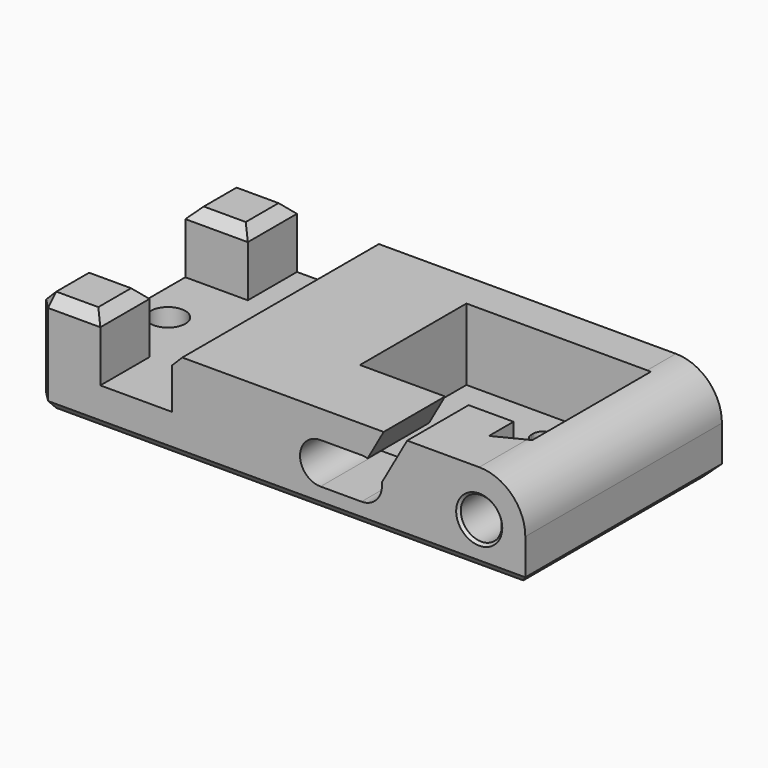
from build123d import *

# Parameters (mm, degrees)
SKETCH014_W     = 47.6
SKETCH014_H     = 24
SKETCH014_R     = 1.7
PAD003_DEPTH    = 10
POCKET011_DEPTH = 24.001
SKETCH016_R     = 2
POCKET012_DEPTH = 6
SKETCH017_W     = 7
SKETCH017_H     = 12
POCKET013_DEPTH = 6
SKETCH033_R     = 2
POCKET022_DEPTH = 5
SKETCH034_R     = 0.999503
POCKET023_DEPTH = 19.001
SKETCH020_W     = 18
SKETCH020_H     = 13
POCKET024_DEPTH = 7
SKETCH021_R     = 0.95
POCKET025_DEPTH = 5
POCKET026_DEPTH = 7
POCKET027_DEPTH = 8
POCKET028_DEPTH = 8
CHAMFER006_SIZE = 1
CHAMFER007_SIZE = 0.25


with BuildPart() as part:
    # Sketch014 → Pad003 (new body)
    with BuildSketch(Plane.XY):
        with Locations((20.7, 0)):
            Rectangle(SKETCH014_W, SKETCH014_H)
        Circle(SKETCH014_R, mode=Mode.SUBTRACT)
    extrude(amount=PAD003_DEPTH)

    # Sketch015 (on Face3 of Pad003) → Pocket011 (cut, through all)
    with BuildSketch(Plane.XZ.offset(12)):
        with BuildLine():
            Line((3, 10.1), (44.5, 10.1))
            Line((44.5, 4.5), (44.5, 10.1))
            ThreePointArc((44.5, 4.5), (43.181981, 7.68198), (40, 9))
            Line((40, 9), (10, 9))
            Line((10, 9), (10, 4))
            Line((10, 4), (3, 4))
            Line((3, 4), (3, 10.1))
        make_face()
    extrude(amount=-POCKET011_DEPTH, mode=Mode.SUBTRACT)

    # Sketch016 (on Face11 of Pocket011) → Pocket012 (cut)
    with BuildSketch(Plane.XZ.offset(12)):
        with Locations((40, 4.5)):
            Circle(SKETCH016_R)
    extrude(amount=-POCKET012_DEPTH, mode=Mode.SUBTRACT)

    # Sketch017 (on Face9 of Pocket012) → Pocket013 (cut)
    with BuildSketch(Plane.XY.offset(10)):
        Rectangle(SKETCH017_W, SKETCH017_H)
    extrude(amount=-POCKET013_DEPTH, mode=Mode.SUBTRACT)

    # Sketch033 (on Face1 of Pocket013) → Pocket022 (cut)
    with BuildSketch(Plane(origin=(0, 12, 0), x_dir=(-1, 0, 0), z_dir=(0, 1, 0))):
        with Locations((-40, 4.5)):
            Circle(SKETCH033_R)
    extrude(amount=-POCKET022_DEPTH, mode=Mode.SUBTRACT)

    # Sketch034 (on Face20 of Pocket022) → Pocket023 (cut, through all)
    with BuildSketch(Plane(origin=(0, 7, 0), x_dir=(-1, 0, 0), z_dir=(0, 1, 0))):
        with Locations((-40, 4.5)):
            Circle(SKETCH034_R)
    extrude(amount=-POCKET023_DEPTH, mode=Mode.SUBTRACT)

    # Sketch020 (on Face5 of Pocket013) → Pocket024 (cut)
    with BuildSketch(Plane.XY.offset(9)):
        with Locations((31.35, 2)):
            Rectangle(SKETCH020_W, SKETCH020_H)
    extrude(amount=-POCKET024_DEPTH, mode=Mode.SUBTRACT)

    # Sketch021 (on Face27 of Pocket024) → Pocket025 (cut)
    with BuildSketch(Plane.XY.offset(2)):
        with Locations((32.3, -1.2)):
            Circle(SKETCH021_R)
        with BuildLine():
            ThreePointArc((33.25, 5.4), (32.3, 6.35), (31.35, 5.4))
            Line((31.35, 5.4), (31.35, 5.2))
            ThreePointArc((31.35, 5.2), (32.3, 4.25), (33.25, 5.2))
            Line((33.25, 5.2), (33.25, 5.4))
        make_face()
    extrude(amount=-POCKET025_DEPTH, mode=Mode.SUBTRACT)

    # Sketch023 (on Face8 of Pocket025) → Pocket026 (cut)
    with BuildSketch(Plane.XY.offset(9)):
        Polygon((40.35, -4.5), (37.35, -4.5), (37.35, -7.5), (40.35, -5.98), align=None)
    extrude(amount=-POCKET026_DEPTH, mode=Mode.SUBTRACT)

    # Sketch024 (on Face12 of Pocket026) → Pocket027 (cut)
    with BuildSketch(Plane.XZ.offset(12)):
        with BuildLine():
            ThreePointArc((28.5, 2.3), (30.5, 4.3), (28.5, 6.3))
            Line((28.5, 6.3), (24.5, 6.3))
            ThreePointArc((24.5, 6.3), (22.5, 4.3), (24.5, 2.3))
            Line((24.5, 2.3), (28.5, 2.3))
        make_face()
    extrude(amount=-POCKET027_DEPTH, mode=Mode.SUBTRACT)

    # Sketch032 (on Face12 of Pocket027) → Pocket028 (cut)
    with BuildSketch(Plane.XZ.offset(12)):
        Polygon((31.392142, 10.286922), (27.849957, 3.99207), (30.144859, 3.99207), (33.687044, 10.286922), align=None)
    extrude(amount=-POCKET028_DEPTH, mode=Mode.SUBTRACT)

    # Chamfer006
    chamfer006_edges = [part.edges().sort_by_distance(p)[0] for p in [
        (-0.05, -12, 10),
        (-3.1, -9, 10),
        (-0.05, -6, 10),
        (3, -9, 10),
        (-0.05, 6, 10),
        (-3.1, 9, 10),
        (-0.05, 12, 10),
        (3, 9, 10),
        (10, 0, 9),
        (-3.1, -12, 5),
        (-3.1, 12, 5),
        (-3.1, 0, 0),
        (20.7, -12, 0),
        (20.7, 12, 0),
        (44.5, 0, 0),
    ]]
    chamfer(chamfer006_edges, length=CHAMFER006_SIZE)

    # Chamfer007
    chamfer007_edges = [part.edges().sort_by_distance(p)[0] for p in [
        (42, 12, 4.5),
        (38, -12, 4.5),
    ]]
    chamfer(chamfer007_edges, length=CHAMFER007_SIZE)


with BuildPart() as part_1:
    # Body002 placement: moved
    add(part.part.moved(Location((0, 31.9, 0))))


solid = part_1.part
